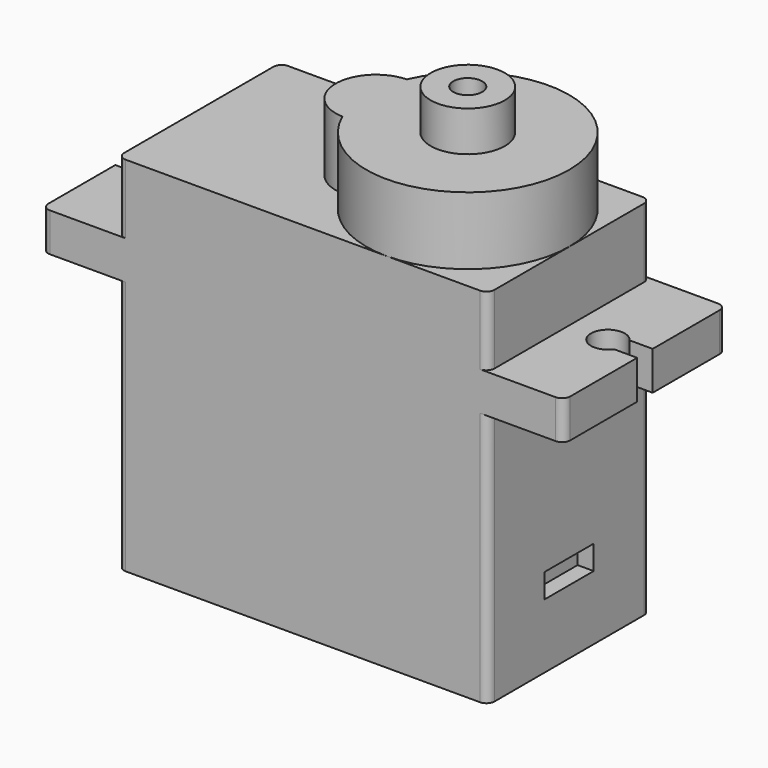
from build123d import *

# Parameters (mm, degrees)
F0_W      = 4.7
F0_H      = 2.4
F1_DEPTH  = 12.6
F3_DEPTH  = 4.2
F4_R      = 2.3
F4_R_2    = 0.9
F5_DEPTH  = 2.5
F7_DEPTH  = 25
F8_R      = 0.5
F9_W      = 3.8
F9_H      = 1.5
F10_DEPTH = 1


with BuildPart() as f1:
    # F0 (on Front) → F1 (new body)
    with BuildSketch(Plane.XZ):
        Polygon((0, 15.8), (0, 0), (23, 0), (23, 15.8), (23, 18.2), (23, 22.5), (0, 22.5), (0, 18.2), align=None)
        with Locations((-2.35, 17)):
            Rectangle(F0_W, F0_H)
        with Locations((25.35, 17)):
            Rectangle(F0_W, F0_H)
    extrude(amount=F1_DEPTH)

    # F2 (on face) → F3 (join)
    with BuildSketch(Plane.XY.offset(22.5)):
        with BuildLine():
            ThreePointArc((10.916667, -3.801389), (8.5, -6.3), (10.916667, -8.798611))
            ThreePointArc((10.916667, -8.798611), (23, -6.3), (10.916667, -3.801389))
        make_face()
    extrude(amount=F3_DEPTH)

    # F4 (on face) → F5 (join)
    with BuildSketch(Plane.XY.offset(26.7)):
        with Locations((16.7, -6.3)):
            Circle(F4_R)
        with Locations((16.7, -6.3)):
            Circle(F4_R_2, mode=Mode.SUBTRACT)
    extrude(amount=F5_DEPTH)

    # F6 (on face) → F7 (cut)
    with BuildSketch(Plane.XY.offset(18.2)):
        with BuildLine():
            Line((-5.387607, -6.9), (-3.261684, -6.9))
            ThreePointArc((-3.261684, -6.9), (-1.35, -6.3), (-3.261684, -5.7))
            Line((-3.261684, -5.7), (-5.387607, -5.7))
            Line((-5.387607, -5.7), (-5.387607, -6.9))
        make_face()
        with BuildLine():
            ThreePointArc((26.261684, -5.7), (24.35, -6.3), (26.261684, -6.9))
            Line((26.261684, -6.9), (28.387607, -6.9))
            Line((28.387607, -6.9), (28.387607, -5.7))
            Line((28.387607, -5.7), (26.261684, -5.7))
        make_face()
    extrude(amount=-F7_DEPTH, mode=Mode.SUBTRACT)

    # F8
    f8_edges = [f1.edges().sort_by_distance(p)[0] for p in [
        (0, -12.6, 20.35),
        (0, -12.6, 7.9),
        (0, 0, 20.35),
        (0, 0, 7.9),
        (-4.7, -12.6, 17),
        (-4.7, 0, 17),
        (27.7, -12.6, 17),
        (23, -12.6, 20.35),
        (23, -12.6, 7.9),
        (27.7, 0, 17),
        (23, 0, 20.35),
        (23, 0, 7.9),
    ]]
    fillet(f8_edges, radius=F8_R)

    # F9 (on face) → F10 (cut)
    with BuildSketch(Plane.YZ.offset(23)):
        with Locations((-6.3, 4.75)):
            Rectangle(F9_W, F9_H)
    extrude(amount=-F10_DEPTH, mode=Mode.SUBTRACT)


solid = f1.part
